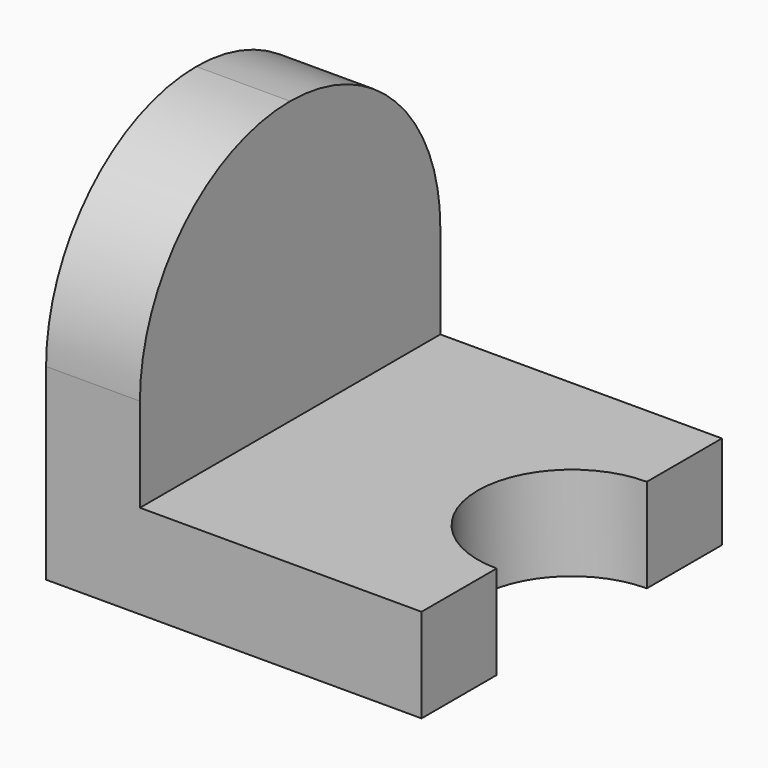
from build123d import *

# Parameters (mm, degrees)
F0_W     = 152.4
F0_H     = 152.4
F1_DEPTH = 152.4
F2_W     = 114.3
F2_H     = 114.3
F3_DEPTH = 152.4
F4_R     = 38.1
F5_DEPTH = 76.2
F7_DEPTH = 304.8


with BuildPart() as f1:
    # F0 (on Front) → F1 (new body)
    with BuildSketch(Plane.XZ):
        with Locations((76.2, 76.2)):
            Rectangle(F0_W, F0_H)
    extrude(amount=F1_DEPTH)

    # F2 (on face) → F3 (cut)
    with BuildSketch(Plane.XZ.offset(152.4)):
        with Locations((95.25, 95.25)):
            Rectangle(F2_W, F2_H)
    extrude(amount=-F3_DEPTH, mode=Mode.SUBTRACT)

    # F4 (on face) → F5 (cut)
    with BuildSketch(Plane.XY.offset(38.1)):
        with Locations((152.4, -76.2)):
            Circle(F4_R)
    extrude(amount=-F5_DEPTH, mode=Mode.SUBTRACT)

    # F6 (on face) → F7 (cut)
    with BuildSketch(Plane.YZ.offset(38.1)):
        with BuildLine():
            Line((-76.2, 152.4), (-152.4, 152.4))
            Line((-152.4, 152.4), (-152.4, 76.2))
            ThreePointArc((-152.4, 76.2), (-130.081537, 130.081537), (-76.2, 152.4))
        make_face()
        with BuildLine():
            Line((0, 152.4), (-76.2, 152.4))
            ThreePointArc((-76.2, 152.4), (-22.318463, 130.081537), (0, 76.2))
            Line((0, 76.2), (0, 152.4))
        make_face()
    extrude(amount=-F7_DEPTH, mode=Mode.SUBTRACT)


solid = f1.part
